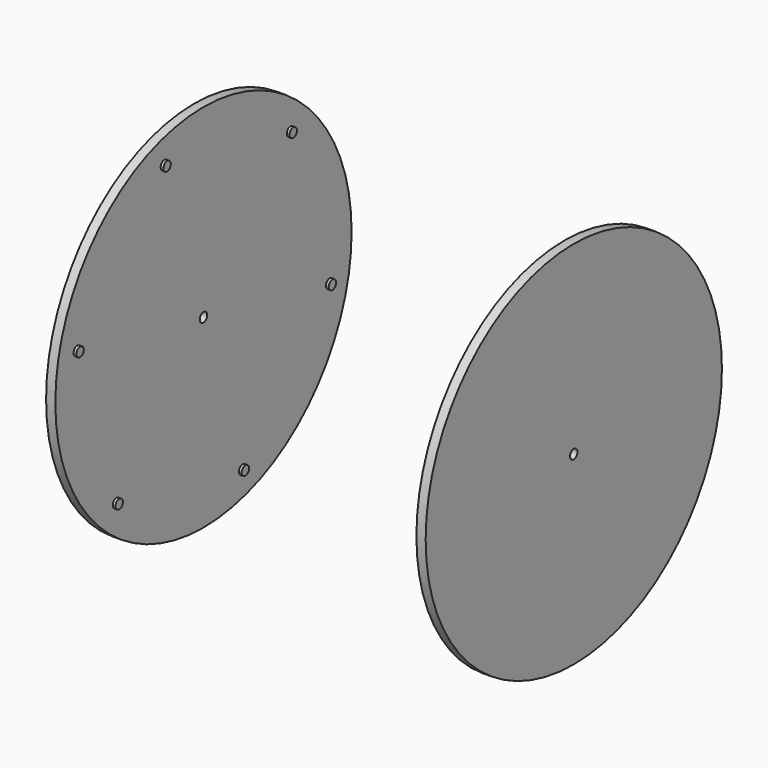
from build123d import *

# Parameters (mm, degrees)
F0_R     = 5
F1_DEPTH = 400
F0_R_2   = 200
F2_DEPTH = 10
F3_R     = 200
F4_DEPTH = 10
F5_R     = 5
F6_DEPTH = 3000
F7_W     = 384
F7_H     = 600
F7_H_2   = 222.5099402733
F8_DEPTH = 200


with BuildPart() as f1:
    # F0 (on Right) → F1 (new body)
    with BuildSketch(Plane.YZ):
        with Locations((52.8585985303, -166.1712229252)):
            Circle(F0_R)
    extrude(amount=F1_DEPTH)



with BuildPart() as f1b:
    # F0 (on Right) → F1, piece 2 (new body)
    with BuildSketch(Plane.YZ):
        with Locations((-117.479201166, -128.8625005983)):
            Circle(F0_R)
    extrude(amount=F1_DEPTH)


with BuildPart() as f1c:
    # F0 (on Right) → F1, piece 3 (new body)
    with BuildSketch(Plane.YZ):
        with Locations((-170.3377996963, 37.3087223269)):
            Circle(F0_R)
    extrude(amount=F1_DEPTH)


with BuildPart() as f1d:
    # F0 (on Right) → F1, piece 4 (new body)
    with BuildSketch(Plane.YZ):
        with Locations((-52.8585985303, 166.1712229252)):
            Circle(F0_R)
    extrude(amount=F1_DEPTH)


with BuildPart() as f1e:
    # F0 (on Right) → F1, piece 5 (new body)
    with BuildSketch(Plane.YZ):
        with Locations((170.3377996963, -37.3087223269)):
            Circle(F0_R)
    extrude(amount=F1_DEPTH)


with BuildPart() as f1f:
    # F0 (on Right) → F1, piece 6 (new body)
    with BuildSketch(Plane.YZ):
        with Locations((117.479201166, 128.8625005983)):
            Circle(F0_R)
    extrude(amount=F1_DEPTH)


with BuildPart() as f1_1:
    add(f1.part)

    add(f1b.part)  # F2 merges F1b

    add(f1c.part)  # F2 merges F1c

    add(f1d.part)  # F2 merges F1d

    add(f1e.part)  # F2 merges F1e

    add(f1f.part)  # F2 merges F1f
    # F0 (on Right) → F2 (join)
    with BuildSketch(Plane.YZ):
        Circle(F0_R_2)
        with Locations((-117.479201166, -128.8625005983)):
            Circle(F0_R, mode=Mode.SUBTRACT)
        with Locations((52.8585985303, -166.1712229252)):
            Circle(F0_R, mode=Mode.SUBTRACT)
        with Locations((170.3377996963, -37.3087223269)):
            Circle(F0_R, mode=Mode.SUBTRACT)
        with Locations((-170.3377996963, 37.3087223269)):
            Circle(F0_R, mode=Mode.SUBTRACT)
        with Locations((-52.8585985303, 166.1712229252)):
            Circle(F0_R, mode=Mode.SUBTRACT)
        with Locations((117.479201166, 128.8625005983)):
            Circle(F0_R, mode=Mode.SUBTRACT)
    extrude(amount=F2_DEPTH)

    # F3 (on face) → F4 (join)
    with BuildSketch(Plane.YZ.offset(400)):
        Circle(F3_R)
    extrude(amount=F4_DEPTH)

    # F5 (on face) → F6 (cut)
    with BuildSketch(Plane.YZ.offset(410)):
        Circle(F5_R)
    extrude(amount=-F6_DEPTH, mode=Mode.SUBTRACT)

    # F7 (on Top) → F8 (cut, symmetric)
    with BuildSketch(Plane.XY):
        with Locations((205, 254.5201855965)):
            Rectangle(F7_W, F7_H)
        with Locations((205, -156.7347845402)):
            Rectangle(F7_W, F7_H_2)
    extrude(amount=F8_DEPTH, both=True, mode=Mode.SUBTRACT)


solid = f1_1.part
